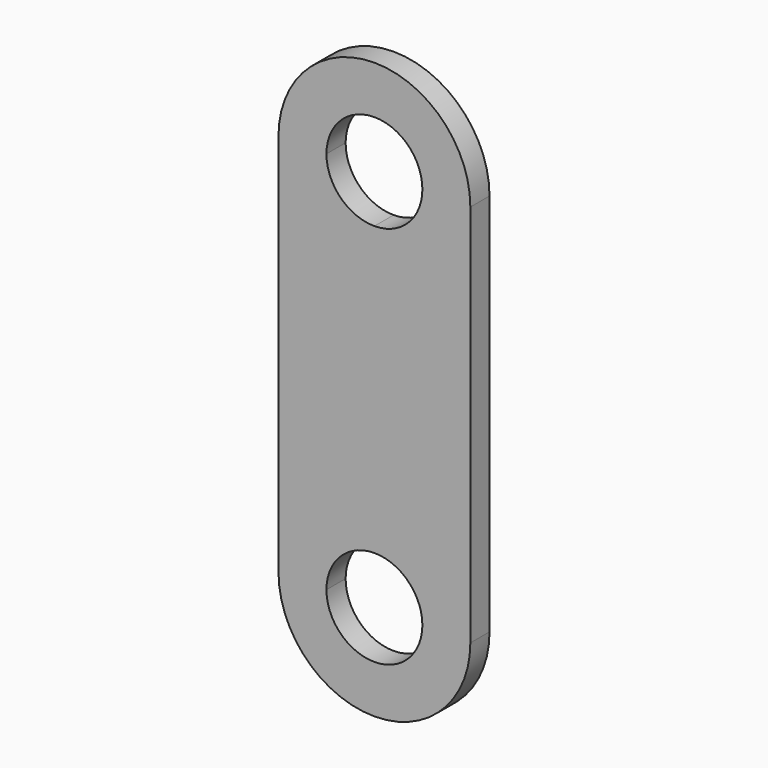
from build123d import *

# Parameters (mm, degrees)
F1_DEPTH = 6.35


with BuildPart() as f1:
    # F0 (on Front) → F1 (new body)
    with BuildSketch(Plane.XZ):
        with BuildLine():
            Line((12.7, 66.6647565722), (25.4, 66.6647565722))
            ThreePointArc((25.4, 66.6647565722), (0, 92.0647565722), (-25.4, 66.6647565722))
            Line((-25.4, 66.6647565722), (-12.7, 66.6647565722))
            ThreePointArc((-12.7, 66.6647565722), (0, 79.3647565722), (12.7, 66.6647565722))
        make_face()
        with BuildLine():
            ThreePointArc((-25.4, 66.6647565722), (-17.9605122421, 48.7042443301), (0, 41.2647565722))
            Line((0, 41.2647565722), (0, 53.9647565722))
            ThreePointArc((0, 53.9647565722), (-8.9802561211, 57.6845004512), (-12.7, 66.6647565722))
            Line((-12.7, 66.6647565722), (-25.4, 66.6647565722))
        make_face()
        with BuildLine():
            ThreePointArc((0, 41.2647565722), (17.9605122421, 48.7042443301), (25.4, 66.6647565722))
            Line((25.4, 66.6647565722), (12.7, 66.6647565722))
            ThreePointArc((12.7, 66.6647565722), (8.9802561211, 57.6845004512), (0, 53.9647565722))
            Line((0, 53.9647565722), (0, 41.2647565722))
        make_face()
        with BuildLine():
            ThreePointArc((0, -9.5352434278), (17.9605122421, -16.9747311856), (25.4, -34.9352434278))
            Line((25.4, -34.9352434278), (25.4, 66.6647565722))
            ThreePointArc((25.4, 66.6647565722), (17.9605122421, 48.7042443301), (0, 41.2647565722))
            Line((0, 41.2647565722), (0, -9.5352434278))
        make_face()
        with BuildLine():
            ThreePointArc((-25.4, -34.9352434278), (-17.9605122421, -16.9747311856), (0, -9.5352434278))
            Line((0, -9.5352434278), (0, 41.2647565722))
            ThreePointArc((0, 41.2647565722), (-17.9605122421, 48.7042443301), (-25.4, 66.6647565722))
            Line((-25.4, 66.6647565722), (-25.4, -34.9352434278))
        make_face()
        with BuildLine():
            ThreePointArc((-12.7, -34.9352434278), (-8.9802561211, -25.9549873067), (0, -22.2352434278))
            Line((0, -22.2352434278), (0, -9.5352434278))
            ThreePointArc((0, -9.5352434278), (-17.9605122421, -16.9747311856), (-25.4, -34.9352434278))
            Line((-25.4, -34.9352434278), (-12.7, -34.9352434278))
        make_face()
        with BuildLine():
            ThreePointArc((0, -22.2352434278), (8.9802561211, -25.9549873067), (12.7, -34.9352434278))
            Line((12.7, -34.9352434278), (25.4, -34.9352434278))
            ThreePointArc((25.4, -34.9352434278), (17.9605122421, -16.9747311856), (0, -9.5352434278))
            Line((0, -9.5352434278), (0, -22.2352434278))
        make_face()
        with BuildLine():
            Line((25.4, -34.9352434278), (12.7, -34.9352434278))
            ThreePointArc((12.7, -34.9352434278), (0, -47.6352434278), (-12.7, -34.9352434278))
            Line((-12.7, -34.9352434278), (-25.4, -34.9352434278))
            ThreePointArc((-25.4, -34.9352434278), (0, -60.3352434278), (25.4, -34.9352434278))
        make_face()
    extrude(amount=F1_DEPTH)


solid = f1.part
